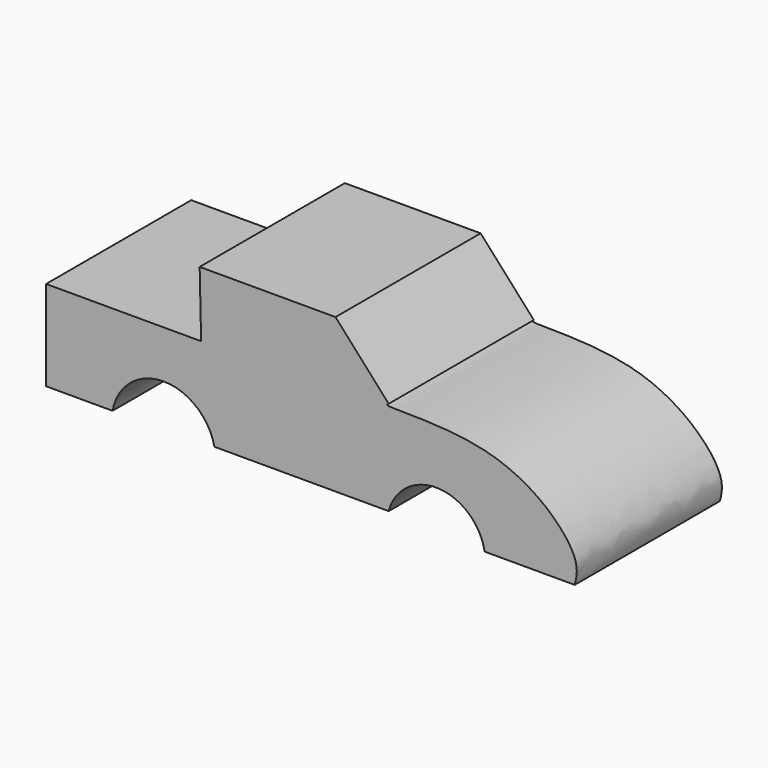
from build123d import *

# Parameters (mm, degrees)
F1_DEPTH = 38.1
F2_R     = 8.7549557155
F3_DEPTH = 12.7
F2_R_2   = 9.303489048


with BuildPart() as f1:
    # F0 (on Front) → F1 (new body)
    with BuildSketch(Plane.XZ):
        with BuildLine():
            Line((-43.2612225413, 10.0787794217), (-75.8234262466, 10.0787794217))
            Line((-75.8234262466, 10.0787794217), (-75.8234262466, -8.838314563))
            Line((-75.8234262466, -8.838314563), (-61.868198216, -8.838314563))
            ThreePointArc((-61.868198216, -8.838314563), (-51.2963041719, 0.0878352511), (-40.4701754451, -8.5281981155))
            Line((-40.4701754451, -8.5281981155), (-3.8764537312, -8.5281981155))
            ThreePointArc((-3.8764537312, -8.5281981155), (6.5747502044, -0.9241754014), (16.2811055779, -9.4585465267))
            Line((16.2811055779, -9.4585465267), (35.1982004941, -9.4585465267))
            add(Edge.make_bspline(
                [(35.1982004941, -9.4585465267), (35.5695992614, -7.9755231569), (36.7211815655, -3.3771679137), (20.6498439118, 12.6402998065), (-5.53188109, 10.2770687279), (-4.0583151347, 11.2047524666), (-3.8764537312, 11.3192433491)],
                knots=[0, 0, 0, 0, 0.1815013138, 0.5627743534, 0.9460394226, 1, 1, 1, 1], degree=3))
            Line((-3.8764537312, 11.3192433491), (-15.0406407192, 23.7238947302))
            Line((-15.0406407192, 23.7238947302), (-43.5713380575, 23.7238947302))
            Line((-43.5713380575, 23.7238947302), (-43.2612225413, 10.0787794217))
        make_face()
    extrude(amount=F1_DEPTH)


with BuildPart() as f3:
    # F2 (on Front) → F3 (new body)
    with BuildSketch(Plane.XZ):
        with Locations((6.9776182063, -11.0091287643)):
            Circle(F2_R)
    extrude(amount=F3_DEPTH)


with BuildPart() as f3b:
    # F2 (on Front) → F3, piece 2 (new body)
    with BuildSketch(Plane.XZ):
        with Locations((-51.0141290724, -10.3888958693)):
            Circle(F2_R_2)
    extrude(amount=F3_DEPTH)


solid = Compound([f1.part, f3.part, f3b.part])
